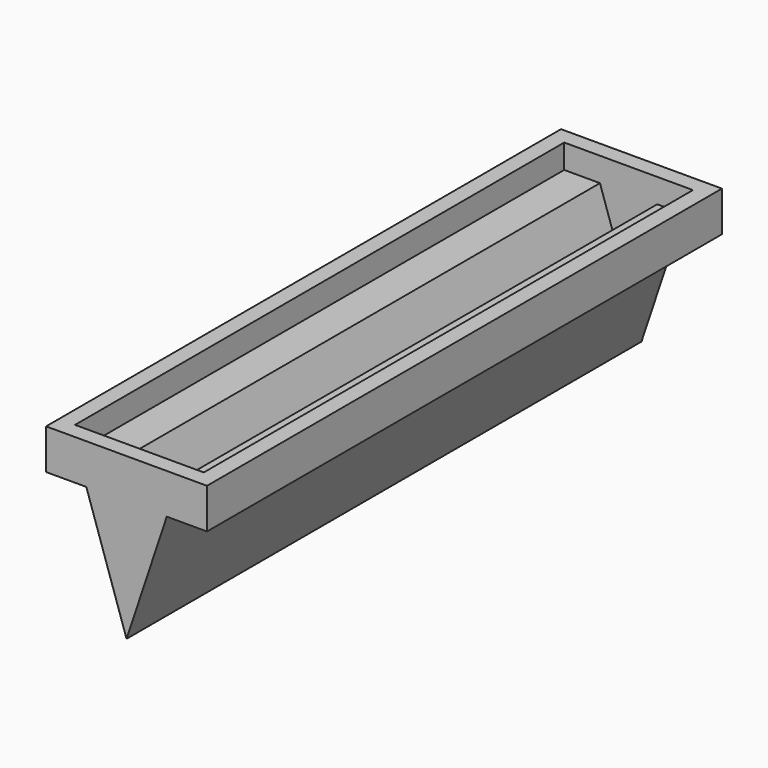
from build123d import *

# Parameters (mm, degrees)
F1_DEPTH = 101.6
F2_T     = -2.54


with BuildPart() as f1:
    # F0 (on Front) → F1 (new body)
    with BuildSketch(Plane.XZ):
        Polygon((0, 0), (-25.4, 0), (-25.4, -6.35), (-19.05, -6.35), (-12.7, -25.4), (-6.35, -6.35), (0, -6.35), align=None)
    extrude(amount=F1_DEPTH)

    # F2
    f2_openings = [f1.faces().sort_by_distance(p)[0] for p in [
        (-12.7, -50.8, 0),
    ]]
    offset(amount=F2_T, openings=f2_openings, kind=Kind.INTERSECTION)


solid = f1.part
